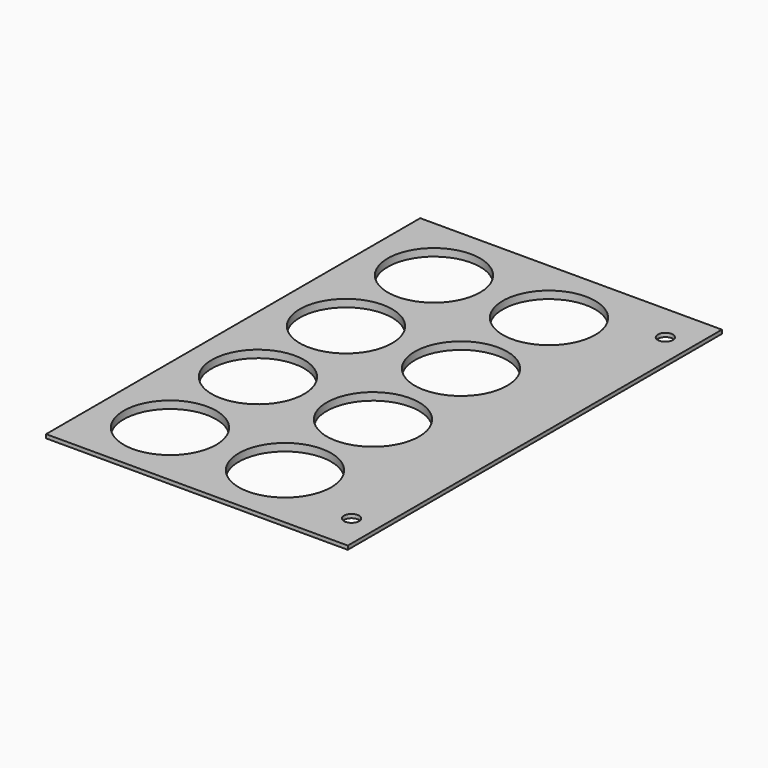
from build123d import *

# Parameters (mm, degrees)
F0_W     = 80
F0_H     = 124
F0_R     = 13.25
F0_R_2   = 12.25
F4_R     = 2
F5_DEPTH = 2


with BuildPart() as f2:
    # F2: sweep along a path in F1
    with BuildLine(Plane.YZ) as f2_path:
        Line((62, 0), (62, -1))
    # F0 (on Top) → F2 (sweep)
    with BuildSketch(Plane.XY):
        Rectangle(F0_W, F0_H)
        with Locations((-21.75, -43.75)):
            Circle(F0_R, mode=Mode.SUBTRACT)
        with Locations((-21.75, -14.583333)):
            Circle(F0_R, mode=Mode.SUBTRACT)
        with Locations((8.75, -43.75)):
            Circle(F0_R, mode=Mode.SUBTRACT)
        with Locations((8.75, -14.583333)):
            Circle(F0_R, mode=Mode.SUBTRACT)
        with Locations((-21.75, 14.583333)):
            Circle(F0_R, mode=Mode.SUBTRACT)
        with Locations((-21.75, 43.75)):
            Circle(F0_R, mode=Mode.SUBTRACT)
        with Locations((8.75, 14.583333)):
            Circle(F0_R, mode=Mode.SUBTRACT)
        with Locations((8.75, 43.75)):
            Circle(F0_R, mode=Mode.SUBTRACT)
    sweep(path=f2_path.line)

    # F3: sweep along a path in F1
    with BuildLine(Plane.YZ) as f3_path:
        Line((62, 0), (62, -1))
        Line((62, -1), (62, -2))
    # F0 (on Top) → F3 (sweep)
    with BuildSketch(Plane.XY):
        with Locations((-21.75, -14.583333)):
            Circle(F0_R)
        with Locations((-21.75, -14.583333)):
            Circle(F0_R_2, mode=Mode.SUBTRACT)
        with Locations((-21.75, 14.583333)):
            Circle(F0_R)
        with Locations((-21.75, 14.583333)):
            Circle(F0_R_2, mode=Mode.SUBTRACT)
        with Locations((-21.75, -43.75)):
            Circle(F0_R)
        with Locations((-21.75, -43.75)):
            Circle(F0_R_2, mode=Mode.SUBTRACT)
        with Locations((8.75, -43.75)):
            Circle(F0_R)
        with Locations((8.75, -43.75)):
            Circle(F0_R_2, mode=Mode.SUBTRACT)
        with Locations((8.75, -14.583333)):
            Circle(F0_R)
        with Locations((8.75, -14.583333)):
            Circle(F0_R_2, mode=Mode.SUBTRACT)
        with Locations((8.75, 14.583333)):
            Circle(F0_R)
        with Locations((8.75, 14.583333)):
            Circle(F0_R_2, mode=Mode.SUBTRACT)
        with Locations((8.75, 43.75)):
            Circle(F0_R)
        with Locations((8.75, 43.75)):
            Circle(F0_R_2, mode=Mode.SUBTRACT)
        with Locations((-21.75, 43.75)):
            Circle(F0_R)
        with Locations((-21.75, 43.75)):
            Circle(F0_R_2, mode=Mode.SUBTRACT)
    sweep(path=f3_path.line)

    # F4 (on face) → F5 (cut)
    with BuildSketch(Plane.XY):
        with Locations((33, 52)):
            Circle(F4_R)
        with Locations((33, -52)):
            Circle(F4_R)
    extrude(amount=-F5_DEPTH, mode=Mode.SUBTRACT)


solid = f2.part
